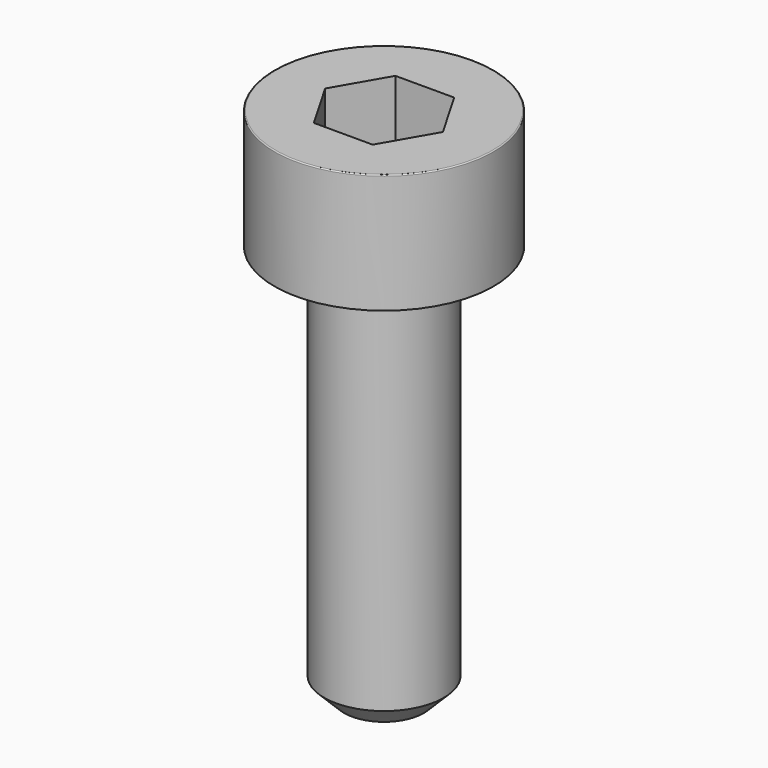
from build123d import *

# Parameters (mm, degrees)
POCKET_DEPTH = 2.56


with BuildPart() as part:
    # Sketch → Revolve (revolve)
    with BuildSketch(Plane.YZ):
        with BuildLine():
            Line((1.499, 0), (2.75, 0))
            Line((2.75, 0), (2.75, 2.97229))
            ThreePointArc((2.75, 2.97229), (2.741884, 2.991884), (2.72229, 3))
            Line((2.72229, 3), (0, 3))
            Line((0, -10), (0, 3))
            Line((1, -10), (0, -10))
            Line((1.5, -9.5), (1, -10))
            Line((1.5, -0.2), (1.5, -9.5))
            Line((1.499, 0), (1.5, -0.2))
        make_face()
    revolve(axis=Axis((0, 0, 0), (0, 0, 1)))

    # Sketch001 → Pocket (cut)
    with BuildSketch(Plane.XY.offset(3)):
        Polygon((1.478017, 0), (0.739008, 1.28), (-0.739008, 1.28), (-1.478017, 0), (-0.739008, -1.28), (0.739008, -1.28), align=None)
    extrude(amount=-POCKET_DEPTH, mode=Mode.SUBTRACT)


solid = part.part
